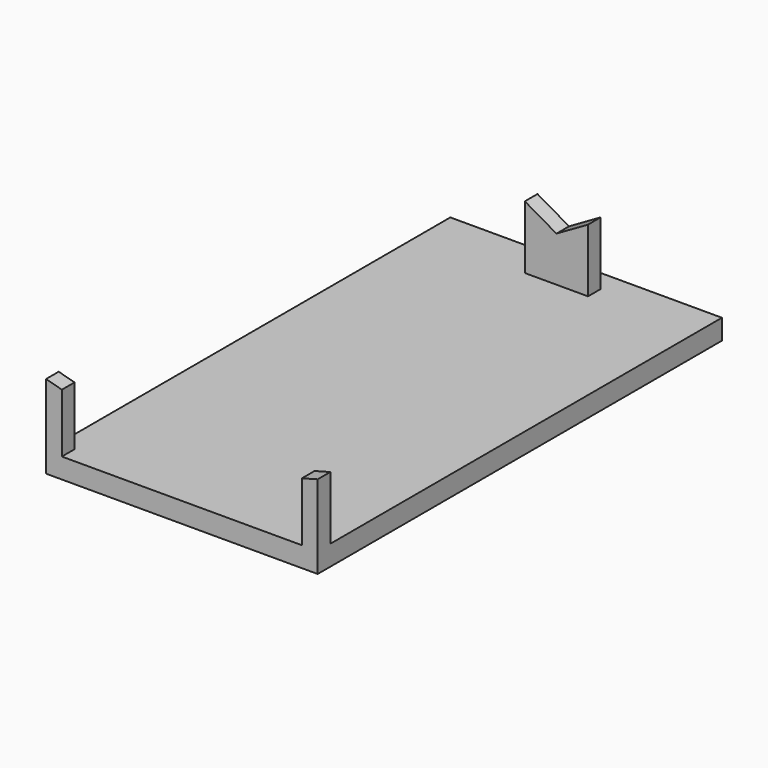
from build123d import *

# Parameters (mm, degrees)
F0_W     = 54.61
F0_H     = 101.6
F1_DEPTH = 4.064
F2_W     = 12.7
F2_H     = 3.175
F3_DEPTH = 12.7
F5_DEPTH = 25.4
F6_W     = 3.175
F6_H     = 3.175
F7_DEPTH = 12.7
F9_DEPTH = 25.4


with BuildPart() as f1:
    # F0 (on Top) → F1 (new body)
    with BuildSketch(Plane.XY):
        Rectangle(F0_W, F0_H)
    extrude(amount=F1_DEPTH)

    # F2 (on face) → F3 (join)
    with BuildSketch(Plane.XY.offset(4.064)):
        with Locations((0, 44.929545)):
            Rectangle(F2_W, F2_H)
    extrude(amount=F3_DEPTH)

    # F4 (on face) → F5 (cut)
    with BuildSketch(Plane(origin=(0, 46.517045, 0), x_dir=(-1, 0, 0), z_dir=(0, 1, 0))):
        Polygon((-6.35, 16.764), (0, 13.105086), (6.35, 16.764), align=None)
    extrude(amount=-F5_DEPTH, mode=Mode.SUBTRACT)

    # F6 (on face) → F7 (join)
    with BuildSketch(Plane.XY.offset(4.064)):
        with Locations((-25.7175, -49.2125)):
            Rectangle(F6_W, F6_H)
        with Locations((25.7175, -49.2125)):
            Rectangle(F6_W, F6_H)
    extrude(amount=F7_DEPTH)

    # F8 (on face) → F9 (cut)
    with BuildSketch(Plane.XZ.offset(50.8)):
        Polygon((-24.13, 16.764), (-27.305, 16.764), (-24.13, 15.9004), align=None)
        Polygon((24.13, 15.911566), (27.305, 16.764), (24.13, 16.764), align=None)
    extrude(amount=-F9_DEPTH, mode=Mode.SUBTRACT)


solid = f1.part
